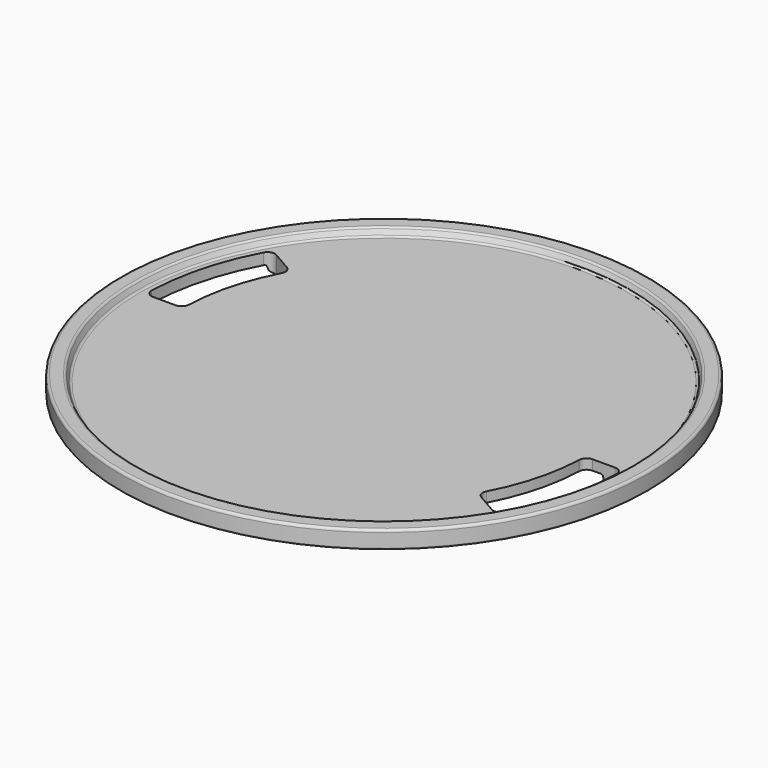
from build123d import *

# Parameters (mm, degrees)
F3_DEPTH = 25


with BuildPart() as f1:
    # F0 (on Front) → F1 (revolve)
    with BuildSketch(Plane.XZ):
        with BuildLine():
            ThreePointArc((195.740629, 15.154763), (195.002613, 14.313217), (193.928014, 14))
            Line((193.928014, 14), (0, 14))
            Line((0, 14), (0, 6))
            Line((0, 6), (172.321801, 6))
            ThreePointArc((172.321801, 6), (173.607376, 5.532089), (174.291416, 4.347296))
            Line((174.291416, 4.347296), (174.766546, 1.652704))
            ThreePointArc((174.766546, 1.652704), (175.450586, 0.467911), (176.736161, 0))
            Line((176.736161, 0), (187.263839, 0))
            ThreePointArc((187.263839, 0), (188.549414, 0.467911), (189.233454, 1.652704))
            Line((189.233454, 1.652704), (189.708584, 4.347296))
            ThreePointArc((189.708584, 4.347296), (190.392624, 5.532089), (191.678199, 6))
            Line((191.678199, 6), (209, 6))
            ThreePointArc((209, 6), (209.707107, 6.292893), (210, 7))
            Line((210, 7), (210, 18))
            ThreePointArc((210, 18), (209.414214, 19.414214), (208, 20))
            Line((208, 20), (199.274141, 20))
            ThreePointArc((199.274141, 20), (198.199541, 19.686783), (197.461525, 18.845237))
            Line((197.461525, 18.845237), (195.740629, 15.154763))
        make_face()
    revolve(axis=Axis((0, 0, 7), (0, 0, 1)))

    # F2 (on Top) → F3 (cut)
    with BuildSketch(Plane.XY):
        with BuildLine():
            ThreePointArc((-167.555147, 89.583886), (-183.525907, 49.175619), (-189.898957, 6.195652))
            ThreePointArc((-189.898957, 6.195652), (-188.213407, 1.827106), (-183.902148, 0))
            Line((-183.902148, 0), (-165.891531, 0))
            ThreePointArc((-165.891531, 0), (-161.72627, 1.681366), (-159.895451, 5.783133))
            ThreePointArc((-159.895451, 5.783133), (-154.548132, 41.411047), (-141.365089, 74.939386))
            ThreePointArc((-141.365089, 74.939386), (-140.899741, 79.40703), (-143.66628, 82.945765))
            Line((-143.66628, 82.945765), (-159.263932, 91.951074))
            ThreePointArc((-159.263932, 91.951074), (-163.911145, 92.524383), (-167.555147, 89.583886))
        make_face()
        with BuildLine():
            ThreePointArc((165.891531, 0), (161.72627, -1.681366), (159.895451, -5.783133))
            ThreePointArc((159.895451, -5.783133), (154.548132, -41.411047), (141.365089, -74.939386))
            ThreePointArc((141.365089, -74.939386), (140.899741, -79.40703), (143.66628, -82.945765))
            Line((143.66628, -82.945765), (159.263932, -91.951074))
            ThreePointArc((159.263932, -91.951074), (163.911145, -92.524383), (167.555147, -89.583886))
            ThreePointArc((167.555147, -89.583886), (183.525907, -49.175619), (189.898957, -6.195652))
            ThreePointArc((189.898957, -6.195652), (188.213407, -1.827106), (183.902148, 0))
            Line((183.902148, 0), (165.891531, 0))
        make_face()
    extrude(amount=F3_DEPTH, mode=Mode.SUBTRACT)


solid = f1.part
